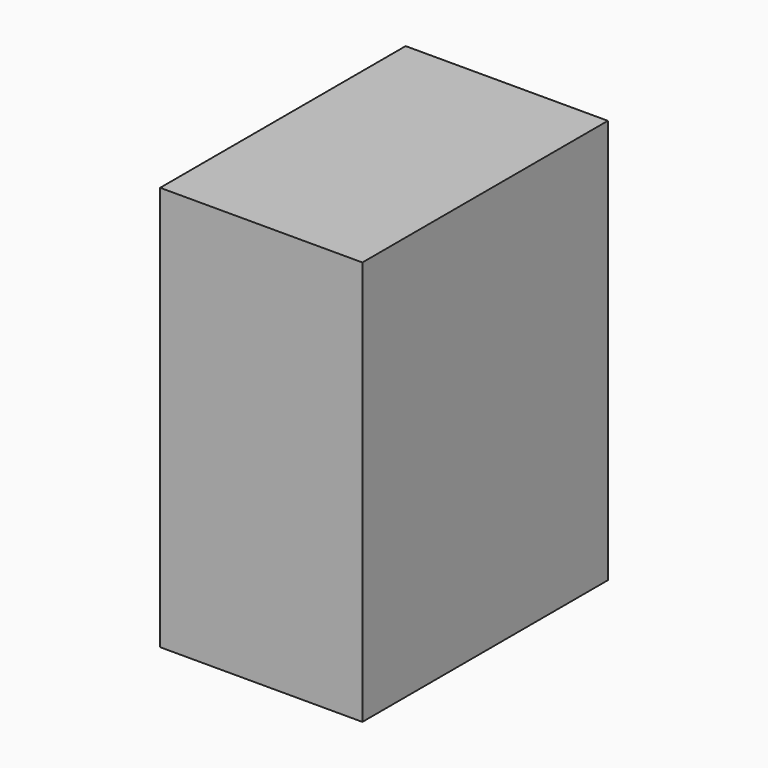
from build123d import *

# Parameters (mm, degrees)
F0_W     = 50.8
F0_H     = 101.6
F1_DEPTH = 77.07125


with BuildPart() as f1:
    # F0 (on Front) → F1 (new body)
    with BuildSketch(Plane.XZ):
        Rectangle(F0_W, F0_H)
        Rectangle(F0_W, F0_H)
    extrude(amount=F1_DEPTH)


solid = f1.part
